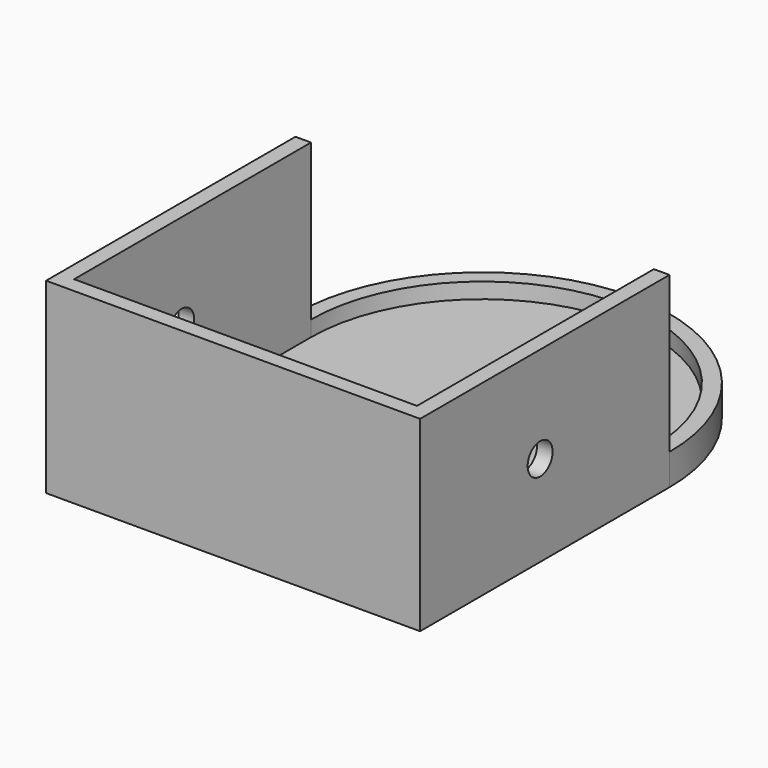
from build123d import *

# Parameters (mm, degrees)
F1_DEPTH = 3.175
F2_DEPTH = 6.35
F3_DEPTH = 38.1
F0_W     = 3.175
F0_H     = 60.325
F4_DEPTH = 38.1
F5_DEPTH = 38.1
F6_R     = 3.175
F7_DEPTH = 76.2


with BuildPart() as f1:
    # F0 (on Top) → F1 (new body)
    with BuildSketch(Plane.XY):
        with BuildLine():
            Line((34.925, -60.325), (34.925, 0))
            ThreePointArc((34.925, 0), (0, 34.925), (-34.925, 0))
            Line((-34.925, 0), (-34.925, -60.325))
            Line((-34.925, -60.325), (34.925, -60.325))
        make_face()
    extrude(amount=F1_DEPTH)

    # F0 (on Top) → F2 (join)
    with BuildSketch(Plane.XY):
        with BuildLine():
            Line((34.925, 0), (38.1, 0))
            ThreePointArc((38.1, 0), (0, 38.1), (-38.1, 0))
            Line((-38.1, 0), (-34.925, 0))
            ThreePointArc((-34.925, 0), (0, 34.925), (34.925, 0))
        make_face()
    extrude(amount=F2_DEPTH)

    # F0 (on Top) → F3 (join)
    with BuildSketch(Plane.XY):
        Polygon((38.1, -63.5), (38.1, -60.325), (34.925, -60.325), (-34.925, -60.325), (-38.1, -60.325), (-38.1, -63.5), align=None)
    extrude(amount=F3_DEPTH)

    # F0 (on Top) → F4 (join)
    with BuildSketch(Plane.XY):
        with Locations((-36.5125, -30.1625)):
            Rectangle(F0_W, F0_H)
    extrude(amount=F4_DEPTH)

    # F0 (on Top) → F5 (join)
    with BuildSketch(Plane.XY):
        with Locations((36.5125, -30.1625)):
            Rectangle(F0_W, F0_H)
    extrude(amount=F5_DEPTH)

    # F6 (on face) → F7 (cut)
    with BuildSketch(Plane.YZ.offset(38.1)):
        with Locations((-32.936446, 18.498553)):
            Circle(F6_R)
    extrude(amount=-F7_DEPTH, mode=Mode.SUBTRACT)


solid = f1.part
